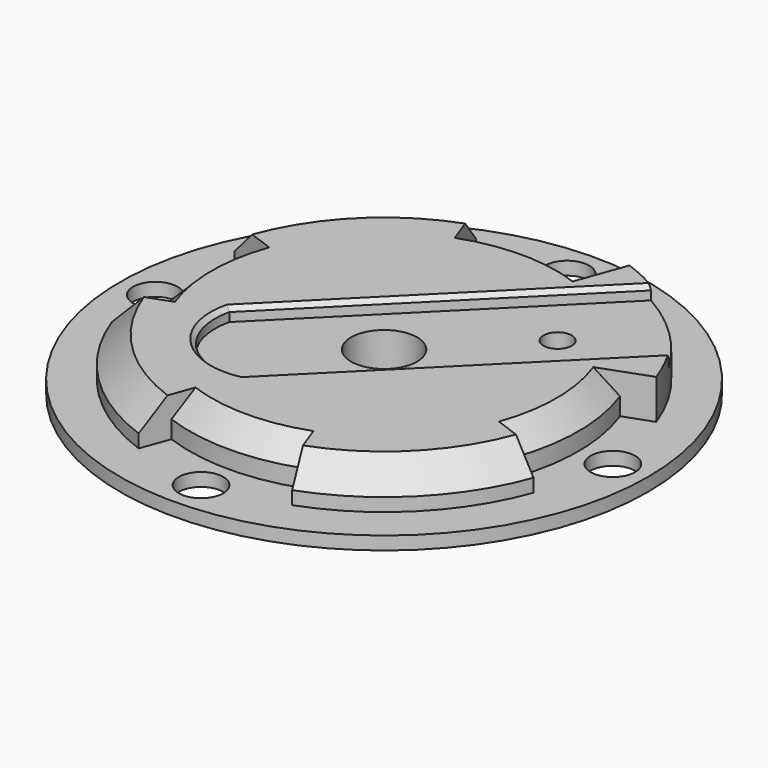
from build123d import *

# Parameters (mm, degrees)
SKETCH_R        = 60
SKETCH_R_2      = 7.5
SKETCH_R_3      = 3.2
SKETCH_R_4      = 5.05
PAD_DEPTH       = 12
SKETCH001_R     = 70
POCKET_DEPTH    = 9
POCKET001_DEPTH = 3
CHAMFER_SIZE    = 1
CHAMFER001_SIZE = 1
CHAMFER002_SIZE = 1
CHAMFER003_SIZE = 6
CHAMFER004_SIZE = 5


with BuildPart() as part:
    # Sketch → Pad (new body)
    with BuildSketch(Plane.XY):
        Circle(SKETCH_R)
        Circle(SKETCH_R_2, mode=Mode.SUBTRACT)
        with Locations((21.92031, 21.92031)):
            Circle(SKETCH_R_3, mode=Mode.SUBTRACT)
        with Locations((-52, 0)):
            Circle(SKETCH_R_4, mode=Mode.SUBTRACT)
        with Locations((52, 0)):
            Circle(SKETCH_R_4, mode=Mode.SUBTRACT)
        with Locations((0, 52)):
            Circle(SKETCH_R_4, mode=Mode.SUBTRACT)
        with Locations((0, -52)):
            Circle(SKETCH_R_4, mode=Mode.SUBTRACT)
    extrude(amount=PAD_DEPTH)

    # Sketch001 → Pocket (cut)
    with BuildSketch(Plane.XY.offset(12)):
        Circle(SKETCH001_R)
        with BuildLine():
            ThreePointArc((-41.534414, 15.11729), (-44.2, 0), (-41.534414, -15.11729))
            Line((-41.534414, -15.11729), (-47.924324, -17.443027))
            ThreePointArc((-47.924324, -17.443027), (-36.062446, -36.062446), (-17.443027, -47.924324))
            Line((-15.11729, -41.534414), (-17.443027, -47.924324))
            ThreePointArc((-15.11729, -41.534414), (0, -44.2), (15.11729, -41.534414))
            Line((15.11729, -41.534414), (17.443027, -47.924324))
            ThreePointArc((17.443027, -47.924324), (36.062446, -36.062446), (47.924324, -17.443027))
            Line((41.534414, -15.11729), (47.924324, -17.443027))
            ThreePointArc((41.534414, -15.11729), (44.2, 0), (41.534414, 15.11729))
            Line((41.534414, 15.11729), (47.924324, 17.443027))
            ThreePointArc((47.924324, 17.443027), (36.062446, 36.062446), (17.443027, 47.924324))
            Line((15.11729, 41.534414), (17.443027, 47.924324))
            ThreePointArc((15.11729, 41.534414), (0, 44.2), (-15.11729, 41.534414))
            Line((-15.11729, 41.534414), (-17.443027, 47.924324))
            ThreePointArc((-17.443027, 47.924324), (-36.062446, 36.062446), (-47.924324, 17.443027))
            Line((-41.534414, 15.11729), (-47.924324, 17.443027))
        make_face(mode=Mode.SUBTRACT)
    extrude(amount=-POCKET_DEPTH, mode=Mode.SUBTRACT)

    # Sketch002 → Pocket001 (cut)
    with BuildSketch(Plane.XY.offset(12)):
        with BuildLine():
            Line((-10.006784, -27.684453), (68.134054, 50.456385))
            Line((68.134054, 50.456385), (49.749909, 68.84053))
            Line((49.749909, 68.84053), (-28.031836, -8.941216))
            ThreePointArc((-28.031836, -8.941216), (-24.121194, -23.21923), (-10.006784, -27.684453))
        make_face()
    extrude(amount=-POCKET001_DEPTH, mode=Mode.SUBTRACT)

    # Chamfer
    chamfer_edges = [part.edges().sort_by_distance(p)[0] for p in [
        (16.897266, -0.780404, 12),
    ]]
    chamfer(chamfer_edges, length=CHAMFER_SIZE)

    # Chamfer001
    chamfer001_edges = [part.edges().sort_by_distance(p)[0] for p in [
        (-1.400452, 17.690168, 12),
    ]]
    chamfer(chamfer001_edges, length=CHAMFER001_SIZE)

    # Chamfer002
    chamfer002_edges = [part.edges().sort_by_distance(p)[0] for p in [
        (-24.121194, -23.21923, 12),
    ]]
    chamfer(chamfer002_edges, length=CHAMFER002_SIZE)

    # Chamfer003
    chamfer003_edges = [part.edges().sort_by_distance(p)[0] for p in [
        (-36.062446, 36.062446, 12),
        (36.062446, -36.062446, 12),
        (-36.062446, -36.062446, 12),
    ]]
    chamfer(chamfer003_edges, length=CHAMFER003_SIZE)

    # Chamfer004
    chamfer004_edges = [part.edges().sort_by_distance(p)[0] for p in [
        (-44.2, 0, 12),
        (0, -44.2, 12),
        (44.2, 0, 12),
        (0, 44.2, 12),
    ]]
    chamfer(chamfer004_edges, length=CHAMFER004_SIZE)


solid = part.part
